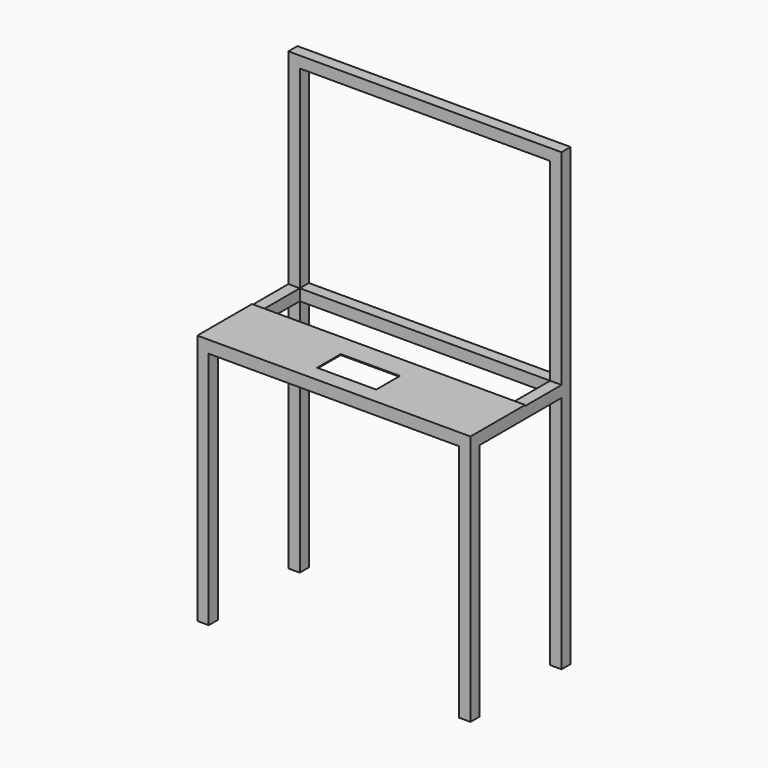
from build123d import *

# Parameters (mm, degrees)
F1_DEPTH  = 1200
F2_W      = 1100
F2_H      = 1050
F3_DEPTH  = 550.001
F4_W      = 1100
F4_H      = 850
F5_DEPTH  = 50.001
F6_R      = 5
F7_DEPTH  = 40
F8_W      = 1100
F8_H      = 450
F9_DEPTH  = 950.001
F10_W     = 1200
F10_H     = 300
F11_DEPTH = 4
F12_W     = 260
F12_H     = 130
F13_DEPTH = 4


with BuildPart() as f1:
    # F0 (on Right) → F1 (new body)
    with BuildSketch(Plane.YZ):
        Polygon((-112.436364, 109.19924), (-112.436364, -990.80076), (-62.436364, -990.80076), (-62.436364, 59.19924), (387.563636, 59.19924), (387.563636, -990.80076), (437.563636, -990.80076), (437.563636, 1009.19924), (387.563636, 1009.19924), (387.563636, 109.19924), align=None)
    extrude(amount=-F1_DEPTH)

    # F2 (on face) → F3 (cut, through all)
    with BuildSketch(Plane.XZ.offset(112.436364)):
        with Locations((-600, -465.80076)):
            Rectangle(F2_W, F2_H)
    extrude(amount=-F3_DEPTH, mode=Mode.SUBTRACT)

    # F4 (on face) → F5 (cut, through all)
    with BuildSketch(Plane.XZ.offset(-387.563636)):
        with Locations((-600, 534.19924)):
            Rectangle(F4_W, F4_H)
    extrude(amount=-F5_DEPTH, mode=Mode.SUBTRACT)

    # F6 (on face) → F7 (cut)
    with BuildSketch(Plane(origin=(0, 0, 59.19924), x_dir=(1, 0, 0), z_dir=(0, 0, -1))):
        with Locations((-847, 92.436364)):
            Circle(F6_R)
        with Locations((-353, 92.436364)):
            Circle(F6_R)
    extrude(amount=-F7_DEPTH, mode=Mode.SUBTRACT)

    # F8 (on face) → F9 (cut, through all)
    with BuildSketch(Plane(origin=(0, 0, 59.19924), x_dir=(1, 0, 0), z_dir=(0, 0, -1))):
        with Locations((-600, -162.563636)):
            Rectangle(F8_W, F8_H)
    extrude(amount=-F9_DEPTH, mode=Mode.SUBTRACT)

    # F10 (on face) → F11 (join)
    with BuildSketch(Plane.XY.offset(109.19924)):
        with Locations((-600, 37.563636)):
            Rectangle(F10_W, F10_H)
    extrude(amount=F11_DEPTH)

    # F12 (on face) → F13 (cut)
    with BuildSketch(Plane.XY.offset(113.19924)):
        with Locations((-600, 22.563636)):
            Rectangle(F12_W, F12_H)
    extrude(amount=-F13_DEPTH, mode=Mode.SUBTRACT)


solid = f1.part
